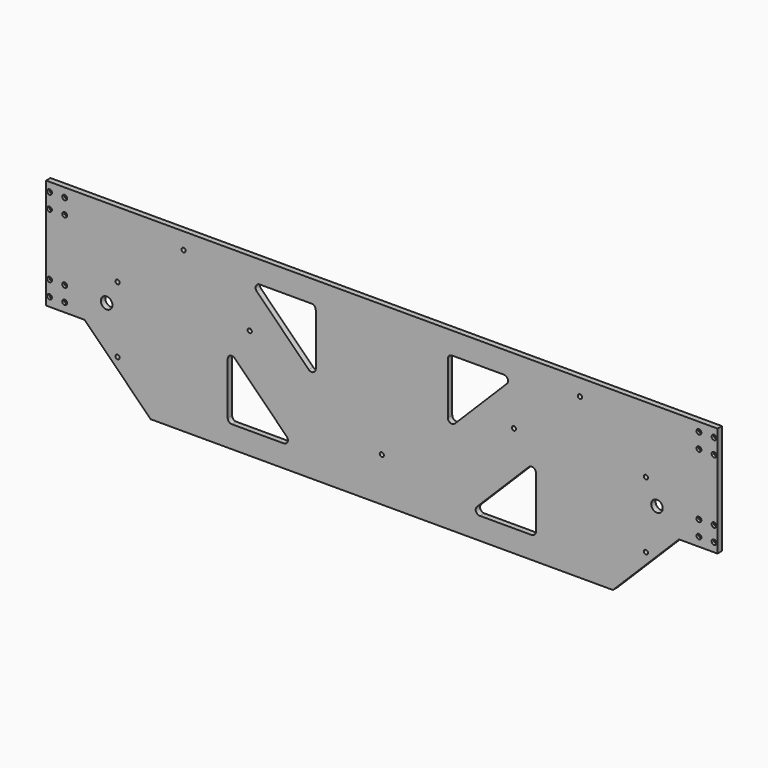
from build123d import *

# Parameters (mm, degrees)
F0_W           = 1549.4
F0_H           = 254
F1_DEPTH       = 12.7
F3_D           = 6.6
F3_CBORE_D     = 11.25
F3_CBORE_DEPTH = 6
F4_W           = 7.62
F4_H           = 5.5372
F6_DEPTH       = 12.7
F8_D           = 26.59126
F10_D          = 9.5758
F12_DEPTH      = 25.4
F13_R          = 9.525


with BuildPart() as f1:
    # F0 (on Front) → F1 (new body)
    with BuildSketch(Plane.XZ):
        Rectangle(F0_W, F0_H)
    extrude(amount=F1_DEPTH)

    # F3 (through all)
    with Locations(Plane.XZ.offset(12.7)):
        with Locations((-766.8006, 106.3994), (-731.8006, 106.3994), (-731.8006, 71.3994), (-766.8006, 71.3994), (-731.8006, -71.4006), (-766.8006, -71.4006), (-766.8006, -106.4006), (-731.8006, -106.4006), (731.7994, 106.3994), (766.7994, 106.3994), (766.7994, 71.3994), (731.7994, 71.3994), (731.7994, -71.4006), (766.7994, -71.4006), (766.7994, -106.4006), (731.7994, -106.4006)):
            CounterBoreHole(F3_D / 2, F3_CBORE_D / 2, F3_CBORE_DEPTH)

    # F4 (on face) + F5 (on face) → F6 (join)
    with BuildSketch(Plane.XZ.offset(12.7)):
        with Locations((-12.1412, 0)):
            Rectangle(F4_W, F4_H)
        with BuildLine():
            Line((-15.9512, -2.7686), (-15.9512, 2.7686))
            ThreePointArc((-15.9512, 2.7686), (-18.7198, 0), (-15.9512, -2.7686))
        make_face()
        with BuildLine():
            ThreePointArc((-8.3312, -2.7686), (-5.5626, 0), (-8.3312, 2.7686))
            Line((-8.3312, 2.7686), (-8.3312, -2.7686))
        make_face()
        with Locations((12.8588, 0)):
            Rectangle(F4_W, F4_H)
        with BuildLine():
            ThreePointArc((9.0488, 2.7686), (6.2802, 0), (9.0488, -2.7686))
            Line((9.0488, -2.7686), (9.0488, 2.7686))
        make_face()
        with BuildLine():
            Line((16.6688, 2.7686), (16.6688, -2.7686))
            ThreePointArc((16.6688, -2.7686), (19.4374, 0), (16.6688, 2.7686))
        make_face()
        with BuildLine():
            Line((16.6688, -60.7314), (16.6688, -66.2686))
            ThreePointArc((16.6688, -66.2686), (19.4374, -63.5), (16.6688, -60.7314))
        make_face()
        with Locations((12.8588, -63.5)):
            Rectangle(F4_W, F4_H)
        with BuildLine():
            ThreePointArc((9.0488, -60.7314), (6.2802, -63.5), (9.0488, -66.2686))
            Line((9.0488, -66.2686), (9.0488, -60.7314))
        make_face()
        with BuildLine():
            Line((-8.3312, -60.7314), (-8.3312, -66.2686))
            ThreePointArc((-8.3312, -66.2686), (-5.5626, -63.5), (-8.3312, -60.7314))
        make_face()
        with Locations((-12.1412, -63.5)):
            Rectangle(F4_W, F4_H)
        with BuildLine():
            ThreePointArc((-15.9512, -60.7314), (-18.7198, -63.5), (-15.9512, -66.2686))
            Line((-15.9512, -66.2686), (-15.9512, -60.7314))
        make_face()
    with BuildSketch(Plane.XZ.offset(12.7)):
        Polygon((685.8, -127), (-685.8, -127), (-533.4, -279.4), (533.4, -279.4), align=None)
    extrude(amount=-F6_DEPTH)

    # F8 (through all)
    with Locations(Plane.XZ.offset(12.7)):
        with Locations((-635, -76.2), (635, -76.2)):
            Hole(F8_D / 2)

    # F10 (through all)
    with Locations(Plane.XZ.offset(12.7)):
        with Locations((-609.6, -25.4), (-609.6, -177.8), (-457.2, 88.9), (457.2, 88.9), (609.6, -25.4), (609.6, -177.8), (-304.8, -25.4), (304.8, -25.4), (0, -177.8)):
            Hole(F10_D / 2)

    # F11 (on face) → F12 (cut)
    with BuildSketch(Plane.XZ.offset(12.7)):
        Polygon((-152.4, 76.2), (-304.8, 76.2), (-152.4, -76.2), align=None)
        Polygon((152.4, -76.2), (304.8, 76.2), (152.4, 76.2), align=None)
        Polygon((355.6, -76.2), (203.2, -228.6), (355.6, -228.6), align=None)
        Polygon((-203.2, -228.6), (-355.6, -76.2), (-355.6, -228.6), align=None)
    extrude(amount=-F12_DEPTH, mode=Mode.SUBTRACT)

    # F13
    f13_edges = [f1.edges().sort_by_distance(p)[0] for p in [
        (-304.8, -6.35, 76.2),
        (-152.4, -6.35, 76.2),
        (-355.6, -6.35, -76.2),
        (-152.4, -6.35, -76.2),
        (-355.6, -6.35, -228.6),
        (-203.2, -6.35, -228.6),
        (355.6, -6.35, -228.6),
        (152.4, -6.35, 76.2),
        (152.4, -6.35, -76.2),
        (203.2, -6.35, -228.6),
        (304.8, -6.35, 76.2),
        (355.6, -6.35, -76.2),
    ]]
    fillet(f13_edges, radius=F13_R)


solid = f1.part
